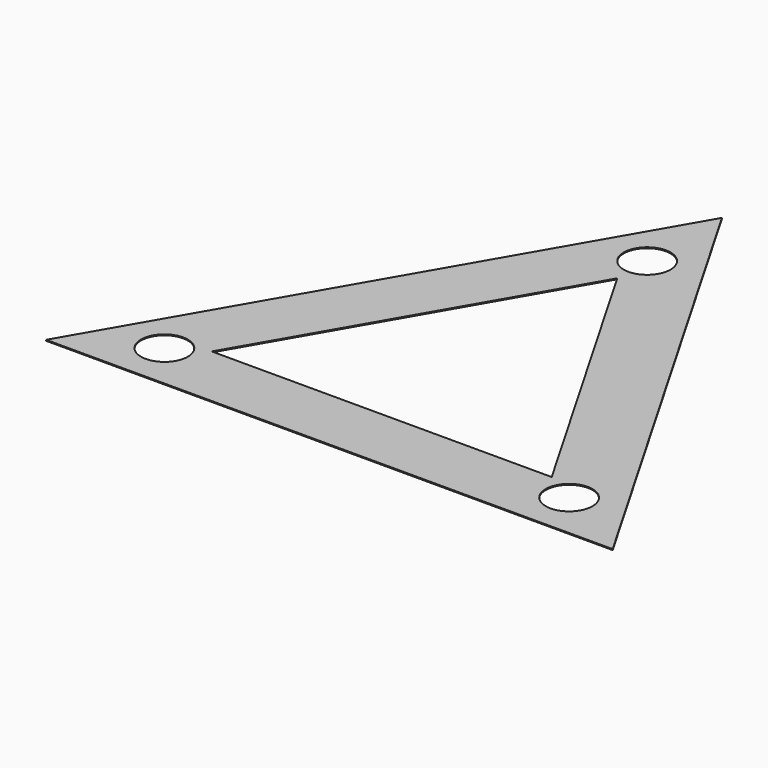
from build123d import *

# Parameters (mm, degrees)
F2_DEPTH = 1


with BuildPart() as f2:
    # F1 (on Top) → F2 (new body)
    with BuildSketch(Plane.XY):
        Polygon((303.10889, -174.999999), (0, 349.999999), (-303.10889, -174.999999), align=None)
        with BuildLine():
            ThreePointArc((25, 249.999999), (21.650635, 237.499999), (12.5, 228.349364))
            Line((12.5, 228.349364), (204.00635, -103.349364))
            ThreePointArc((204.00635, -103.349364), (229.00635, -103.349364), (241.50635, -124.999999))
            ThreePointArc((241.50635, -124.999999), (216.50635, -149.999999), (191.50635, -124.999999))
            Line((191.50635, -124.999999), (-191.50635, -124.999999))
            ThreePointArc((-191.50635, -124.999999), (-238.156985, -137.499999), (-204.00635, -103.349364))
            Line((-204.00635, -103.349364), (-12.5, 228.349364))
            ThreePointArc((-12.5, 228.349364), (-12.5, 271.650634), (25, 249.999999))
        make_face(mode=Mode.SUBTRACT)
        with BuildLine():
            Line((204.00635, -103.349364), (12.5, 228.349364))
            ThreePointArc((12.5, 228.349364), (0, 224.999999), (-12.5, 228.349364))
            Line((-12.5, 228.349364), (-204.00635, -103.349364))
            ThreePointArc((-204.00635, -103.349364), (-194.855715, -112.499999), (-191.50635, -124.999999))
            Line((-191.50635, -124.999999), (191.50635, -124.999999))
            ThreePointArc((191.50635, -124.999999), (194.855715, -112.499999), (204.00635, -103.349364))
        make_face()
        Polygon((-181.865334, -104.999999), (0, 209.999999), (181.865334, -104.999999), align=None, mode=Mode.SUBTRACT)
    extrude(amount=F2_DEPTH)


solid = f2.part
